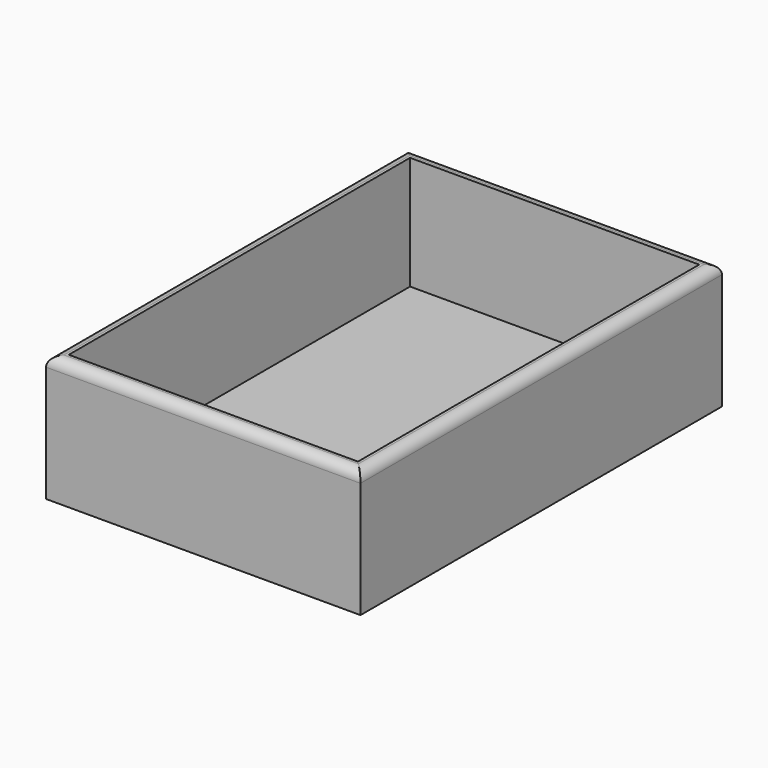
from build123d import *

# Parameters (mm, degrees)
F0_W     = 63.397132
F0_H     = 91.097686
F1_DEPTH = 25.4
F2_T     = -2.54
F3_R     = 2


with BuildPart() as f1:
    # F0 (on Top) → F1 (new body)
    with BuildSketch(Plane.XY):
        with Locations((-4.997522, 3.712451)):
            Rectangle(F0_W, F0_H)
    extrude(amount=F1_DEPTH)

    # F2
    f2_openings = [f1.faces().sort_by_distance(p)[0] for p in [
        (-4.997522, 3.712451, 25.4),
    ]]
    offset(amount=F2_T, openings=f2_openings)

    # F3
    f3_edges = [f1.edges().sort_by_distance(p)[0] for p in [
        (26.701044, 3.712451, 25.4),
        (-4.997522, -41.836392, 25.4),
        (-36.696088, 3.712451, 25.4),
        (-4.997522, 49.261294, 25.4),
    ]]
    fillet(f3_edges, radius=F3_R)


solid = f1.part
